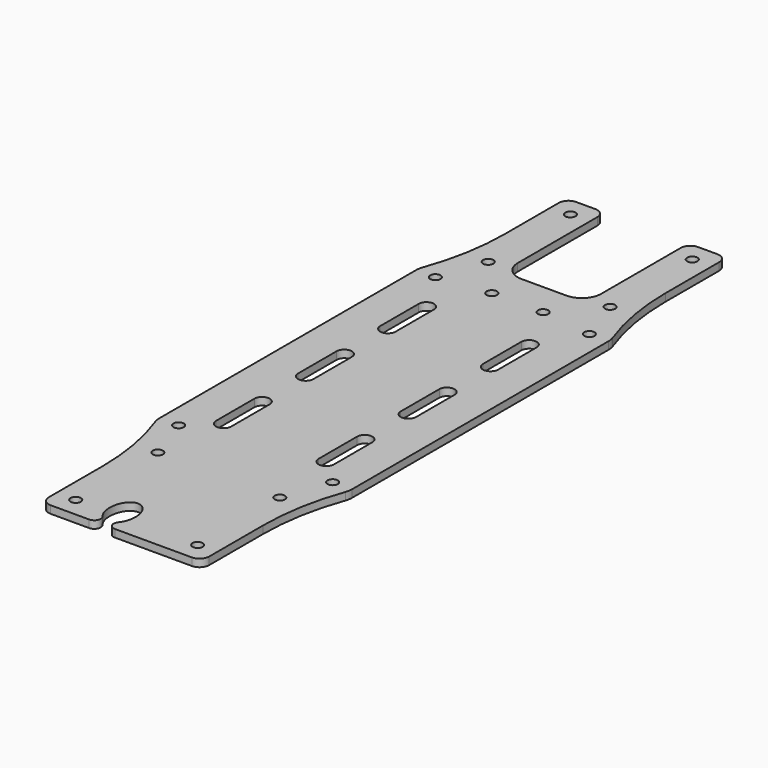
from build123d import *

# Parameters (mm, degrees)
F1_DEPTH  = 2.3622
F2_R      = 1.6002
F3_DEPTH  = 2.3632
F5_DEPTH  = 25
F7_DEPTH  = 25
F9_DEPTH  = 4
F12_DEPTH = 4
F13_R     = 1.5
F14_DEPTH = 8
F18_DEPTH = 2.3622
F20_DEPTH = 2.3622


with BuildPart() as f1:
    # F0 (on Top) → F1 (new body)
    with BuildSketch(Plane.XY):
        with BuildLine():
            Line((22, 102.3484512108), (0, 102.3484512108))
            Line((0, 102.3484512108), (-22, 102.3484512108))
            ThreePointArc((-22, 102.3484512108), (-24.1213203436, 101.4697715544), (-25, 99.3484512108))
            Line((-25, 99.3484512108), (-25, 78.3484512108))
            ThreePointArc((-25, 78.3484512108), (-26.168369619, 64.9976161999), (-29.6379586746, 52.0526621698))
            ThreePointArc((-29.6379586746, 52.0526621698), (-29.9087964954, 51.042172719), (-30, 50))
            Line((-30, 50), (-30, -50))
            ThreePointArc((-30, -50), (-29.9087964954, -51.042172719), (-29.6379586746, -52.0526621698))
            ThreePointArc((-29.6379586746, -52.0526621698), (-26.168369619, -64.9976161999), (-25, -78.3484512108))
            Line((-25, -78.3484512108), (-25, -99.3484512108))
            ThreePointArc((-25, -99.3484512108), (-24.1213203436, -101.4697715544), (-22, -102.3484512108))
            Line((-22, -102.3484512108), (0, -102.3484512108))
            Line((0, -102.3484512108), (22, -102.3484512108))
            ThreePointArc((22, -102.3484512108), (24.1213203436, -101.4697715544), (25, -99.3484512108))
            Line((25, -99.3484512108), (25, -78.3484512108))
            ThreePointArc((25, -78.3484512108), (26.168369619, -64.9976161999), (29.6379586746, -52.0526621698))
            ThreePointArc((29.6379586746, -52.0526621698), (29.9087964954, -51.042172719), (30, -50))
            Line((30, -50), (30, 50))
            ThreePointArc((30, 50), (29.9087964954, 51.042172719), (29.6379586746, 52.0526621698))
            ThreePointArc((29.6379586746, 52.0526621698), (26.168369619, 64.9976161999), (25, 78.3484512108))
            Line((25, 78.3484512108), (25, 99.3484512108))
            ThreePointArc((25, 99.3484512108), (24.1213203436, 101.4697715544), (22, 102.3484512108))
        make_face()
    extrude(amount=-F1_DEPTH)

    # F2 (on face) → F3 (cut, through all)
    with BuildSketch(Plane.XY):
        with Locations((-19, 96.3484512108)):
            Circle(F2_R)
        with Locations((-19, 64.3484512108)):
            Circle(F2_R)
        with Locations((-19, -96.3484512108)):
            Circle(F2_R)
        with Locations((-19, -64.3484512108)):
            Circle(F2_R)
        with Locations((-24, -50)):
            Circle(F2_R)
        with Locations((-24, 50)):
            Circle(F2_R)
        with Locations((19, 96.3484512108)):
            Circle(F2_R)
        with Locations((19, 64.3484512108)):
            Circle(F2_R)
        with Locations((24, 50)):
            Circle(F2_R)
        with Locations((24, -50)):
            Circle(F2_R)
        with Locations((19, -64.3484512108)):
            Circle(F2_R)
        with Locations((19, -96.3484512108)):
            Circle(F2_R)
        with BuildLine():
            ThreePointArc((-18.38, -42.5), (-16, -44.88), (-13.62, -42.5))
            Line((-13.62, -42.5), (-13.62, -27.5))
            ThreePointArc((-13.62, -27.5), (-16, -25.12), (-18.38, -27.5))
            Line((-18.38, -27.5), (-18.38, -42.5))
        make_face()
        with BuildLine():
            Line((-18.38, 4.5), (-18.38, -10.5))
            ThreePointArc((-18.38, -10.5), (-16, -12.88), (-13.62, -10.5))
            Line((-13.62, -10.5), (-13.62, 4.5))
            ThreePointArc((-13.62, 4.5), (-16, 6.88), (-18.38, 4.5))
        make_face()
        with BuildLine():
            Line((-18.38, 36.5), (-18.38, 21.5))
            ThreePointArc((-18.38, 21.5), (-16, 19.12), (-13.62, 21.5))
            Line((-13.62, 21.5), (-13.62, 36.5))
            ThreePointArc((-13.62, 36.5), (-16, 38.88), (-18.38, 36.5))
        make_face()
        with BuildLine():
            Line((13.62, -27.5), (13.62, -42.5))
            ThreePointArc((13.62, -42.5), (16, -44.88), (18.38, -42.5))
            Line((18.38, -42.5), (18.38, -27.5))
            ThreePointArc((18.38, -27.5), (16, -25.12), (13.62, -27.5))
        make_face()
        with BuildLine():
            Line((13.62, 4.5), (13.62, -10.5))
            ThreePointArc((13.62, -10.5), (16, -12.88), (18.38, -10.5))
            Line((18.38, -10.5), (18.38, 4.5))
            ThreePointArc((18.38, 4.5), (16, 6.88), (13.62, 4.5))
        make_face()
        with BuildLine():
            Line((13.62, 36.5), (13.62, 21.5))
            ThreePointArc((13.62, 21.5), (16, 19.12), (18.38, 21.5))
            Line((18.38, 21.5), (18.38, 36.5))
            ThreePointArc((18.38, 36.5), (16, 38.88), (13.62, 36.5))
        make_face()
        with Locations((-8, 52)):
            Circle(F2_R)
        with Locations((8, 52)):
            Circle(F2_R)
    extrude(amount=-F3_DEPTH, mode=Mode.SUBTRACT)

    # F17 (on face) → F18 (cut, through all)
    with BuildSketch(Plane.XY):
        with BuildLine():
            Line((-7, 62.3484512108), (0, 62.3484512108))
            Line((0, 62.3484512108), (7, 62.3484512108))
            ThreePointArc((7, 62.3484512108), (11.2426406871, 64.1058105237), (13, 68.3484512108))
            Line((13, 68.3484512108), (13, 99.3484512108))
            ThreePointArc((13, 99.3484512108), (13.8786796564, 101.4697715544), (16, 102.3484512108))
            Line((16, 102.3484512108), (16, 105.3484512108))
            Line((16, 105.3484512108), (0, 105.3484512108))
            Line((0, 105.3484512108), (-16, 105.3484512108))
            Line((-16, 105.3484512108), (-16, 102.3484512108))
            ThreePointArc((-16, 102.3484512108), (-13.8786796564, 101.4697715544), (-13, 99.3484512108))
            Line((-13, 99.3484512108), (-13, 68.3484512108))
            ThreePointArc((-13, 68.3484512108), (-11.2426406871, 64.1058105237), (-7, 62.3484512108))
        make_face()
    extrude(amount=-F18_DEPTH, mode=Mode.SUBTRACT)

    # F19 (on face) → F20 (cut, through all)
    with BuildSketch(Plane.XY):
        with BuildLine():
            ThreePointArc((-2, -102.3484512108), (-3.81168362, -101.1916512107), (-3.5245198646, -99.0614116099))
            add(Edge.make_bspline(
                [(-3.5245198646, -99.0614116099), (5.5403448359, -88.3484512108), (-6, -88.3484512108), (-17.5403448359, -88.3484512108), (-8.4754801354, -99.0614116099)],
                knots=[3.808895997, 3.808895997, 3.808895997, 6.2831853072, 6.2831853072, 8.7574746173, 8.7574746173, 8.7574746173], degree=2, weights=[1, 0.3274954963, 1, 0.3274954963, 1]))
            ThreePointArc((-8.4754801354, -99.0614116099), (-8.18831638, -101.1916512107), (-10, -102.3484512108))
            Line((-10, -102.3484512108), (-10, -103.3484512108))
            Line((-10, -103.3484512108), (-2, -103.3484512108))
            Line((-2, -103.3484512108), (-2, -102.3484512108))
        make_face()
    extrude(amount=-F20_DEPTH, mode=Mode.SUBTRACT)


with BuildPart() as f5:
    # F4 (on Top) → F5 (new body)
    with BuildSketch(Plane.XY):
        with BuildLine():
            ThreePointArc((-22, 41.05572809), (-21.4772255751, 43.5052178328), (-20, 45.527864045))
            ThreePointArc((-20, 45.527864045), (-24, 56), (-28, 45.527864045))
            ThreePointArc((-28, 45.527864045), (-26.5227744249, 43.5052178328), (-26, 41.05572809))
            Line((-26, 41.05572809), (-26, -41.05572809))
            ThreePointArc((-26, -41.05572809), (-26.5227744249, -43.5052178328), (-28, -45.527864045))
            ThreePointArc((-28, -45.527864045), (-24, -56), (-20, -45.527864045))
            ThreePointArc((-20, -45.527864045), (-21.4772255751, -43.5052178328), (-22, -41.05572809))
            Line((-22, -41.05572809), (-22, 41.05572809))
        make_face()
    extrude(amount=F5_DEPTH)

    # F6 (on face) → F7 (cut, through all)
    with BuildSketch(Plane(origin=(0, 0, 0), x_dir=(1, 0, 0), z_dir=(0, 0, -1))):
        Polygon((-24, -46.4781633579), (-27.05, -48.239081679), (-27.05, -51.760918321), (-24, -53.5218366421), (-20.95, -51.760918321), (-20.95, -48.239081679), align=None)
        Polygon((-24, 53.5218366421), (-27.05, 51.760918321), (-27.05, 48.239081679), (-24, 46.4781633579), (-20.95, 48.239081679), (-20.95, 51.760918321), align=None)
    extrude(amount=-F7_DEPTH, mode=Mode.SUBTRACT)

    # F8 (on face) → F9 (cut, through all)
    with BuildSketch(Plane(origin=(-26, 0, 0), x_dir=(0, -1, 0), z_dir=(-1, 0, 0))):
        with BuildLine():
            ThreePointArc((-10.25, 16.5), (-10.5428932188, 17.2071067812), (-11.25, 17.5))
            Line((-11.25, 17.5), (-19.25, 17.5))
            ThreePointArc((-19.25, 17.5), (-19.9571067812, 17.2071067812), (-20.25, 16.5))
            Line((-20.25, 16.5), (-20.25, 8.5))
            ThreePointArc((-20.25, 8.5), (-19.9571067812, 7.7928932188), (-19.25, 7.5))
            Line((-19.25, 7.5), (-11.25, 7.5))
            ThreePointArc((-11.25, 7.5), (-10.5428932188, 7.7928932188), (-10.25, 8.5))
            Line((-10.25, 8.5), (-10.25, 16.5))
        make_face()
        with BuildLine():
            Line((-7.5, 2.5), (-7.5, 0))
            Line((-7.5, 0), (7.5, 0))
            Line((7.5, 0), (7.5, 2.5))
            ThreePointArc((7.5, 2.5), (7.2071067812, 3.2071067812), (6.5, 3.5))
            Line((6.5, 3.5), (-6.5, 3.5))
            ThreePointArc((-6.5, 3.5), (-7.2071067812, 3.2071067812), (-7.5, 2.5))
        make_face()
        with BuildLine():
            Line((-23, 25), (-27, 25))
            ThreePointArc((-27, 25), (-25, 23), (-23, 25))
        make_face()
        with BuildLine():
            Line((-27, 0), (-23, 0))
            ThreePointArc((-23, 0), (-25, 2), (-27, 0))
        make_face()
        with BuildLine():
            ThreePointArc((10.25, 8.5), (10.5428932188, 7.7928932188), (11.25, 7.5))
            Line((11.25, 7.5), (19.25, 7.5))
            ThreePointArc((19.25, 7.5), (19.9571067812, 7.7928932188), (20.25, 8.5))
            Line((20.25, 8.5), (20.25, 16.5))
            ThreePointArc((20.25, 16.5), (19.9571067812, 17.2071067812), (19.25, 17.5))
            Line((19.25, 17.5), (11.25, 17.5))
            ThreePointArc((11.25, 17.5), (10.5428932188, 17.2071067812), (10.25, 16.5))
            Line((10.25, 16.5), (10.25, 8.5))
        make_face()
        with BuildLine():
            ThreePointArc((23, 25), (25, 23), (27, 25))
            Line((27, 25), (23, 25))
        make_face()
        with BuildLine():
            Line((23, 0), (27, 0))
            ThreePointArc((27, 0), (25, 2), (23, 0))
        make_face()
        with BuildLine():
            ThreePointArc((-7.5, 22.5), (-7.2071067812, 21.7928932188), (-6.5, 21.5))
            Line((-6.5, 21.5), (6.5, 21.5))
            ThreePointArc((6.5, 21.5), (7.2071067812, 21.7928932188), (7.5, 22.5))
            Line((7.5, 22.5), (7.5, 25))
            Line((7.5, 25), (-7.5, 25))
            Line((-7.5, 25), (-7.5, 22.5))
        make_face()
    extrude(amount=-F9_DEPTH, mode=Mode.SUBTRACT)


with BuildPart() as f12:
    # F11 (on offset) → F12 (new body, symmetric)
    with BuildSketch(Plane.XY.offset(12.5)):
        with BuildLine():
            Line((-26.25, 19.75), (-26.25, 21.25))
            Line((-26.25, 21.25), (-27.75, 21.25))
            Line((-27.75, 21.25), (-27.75, 15.25))
            Line((-27.75, 15.25), (-27.75, 9.25))
            Line((-27.75, 9.25), (-26.25, 9.25))
            Line((-26.25, 9.25), (-26.25, 10.75))
            ThreePointArc((-26.25, 10.75), (-26.1035533906, 11.1035533906), (-25.75, 11.25))
            Line((-25.75, 11.25), (-19.25, 11.25))
            Line((-19.25, 11.25), (-18.25, 12.25))
            Line((-18.25, 12.25), (-15.25, 12.25))
            ThreePointArc((-15.25, 12.25), (-13.1286796564, 13.1286796564), (-12.25, 15.25))
            ThreePointArc((-12.25, 15.25), (-13.1286796564, 17.3713203436), (-15.25, 18.25))
            Line((-15.25, 18.25), (-18.25, 18.25))
            Line((-18.25, 18.25), (-19.25, 19.25))
            Line((-19.25, 19.25), (-25.75, 19.25))
            ThreePointArc((-25.75, 19.25), (-26.1035533906, 19.3964466094), (-26.25, 19.75))
        make_face()
    extrude(amount=F12_DEPTH, both=True)

    # F13 (on face) → F14 (cut, through all)
    with BuildSketch(Plane.XY.offset(16.5)):
        with Locations((-15.25, 15.25)):
            Circle(F13_R)
    extrude(amount=-F14_DEPTH, mode=Mode.SUBTRACT)


solid = f1.part
